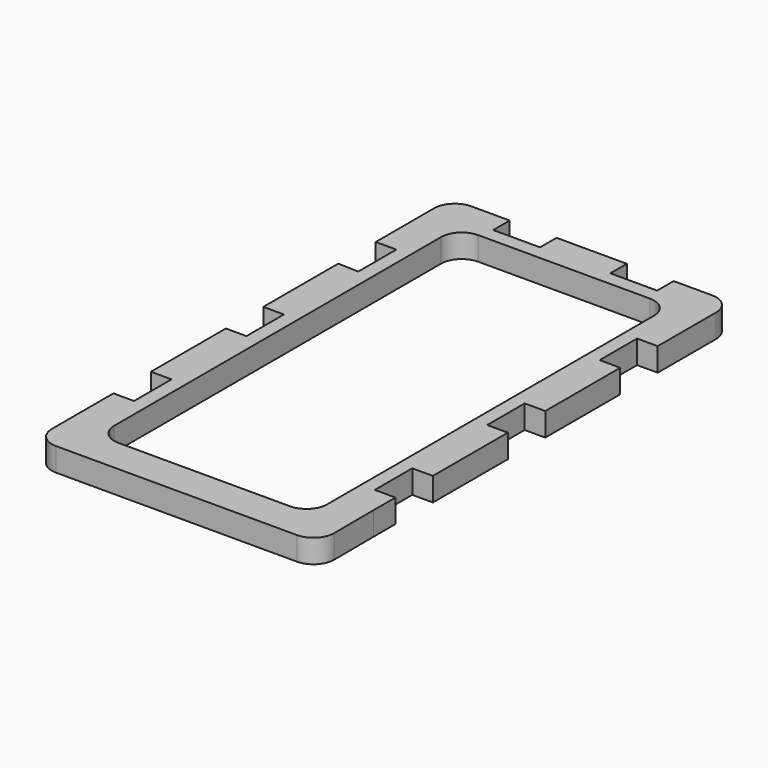
from build123d import *

# Parameters (mm, degrees)
F1_DEPTH = 6.35


with BuildPart() as f1:
    # F0 (on Top) → F1 (new body)
    with BuildSketch(Plane.XY):
        with BuildLine():
            Line((-22.225, 69.092832), (-32.639, 69.092832))
            ThreePointArc((-32.639, 69.092832), (-36.590313, 67.456144), (-38.227, 63.504832))
            Line((-38.227, 63.504832), (-38.227, 43.692832))
            Line((-38.227, 43.692832), (-32.639, 43.692832))
            Line((-32.639, 43.692832), (-32.639, 30.775996))
            Line((-32.639, 30.775996), (-38.227, 30.992832))
            Line((-38.227, 30.992832), (-38.227, 5.592832))
            Line((-38.227, 5.592832), (-32.639, 5.592832))
            Line((-32.639, 5.592832), (-32.639, -7.107168))
            Line((-32.639, -7.107168), (-38.227, -7.107168))
            Line((-38.227, -7.107168), (-38.227, -32.507168))
            Line((-38.227, -32.507168), (-32.639, -32.507168))
            Line((-32.639, -32.507168), (-32.639, -45.207168))
            Line((-32.639, -45.207168), (-38.227, -45.207168))
            Line((-38.227, -45.207168), (-38.227, -52.56587))
            Line((-38.227, -52.56587), (-38.227, -66.085968))
            ThreePointArc((-38.227, -66.085968), (-36.590313, -70.037281), (-32.639, -71.673968))
            Line((-32.639, -71.673968), (-22.225, -71.673968))
            Line((-22.225, -71.673968), (-9.525, -71.673968))
            Line((-9.525, -71.673968), (9.525, -71.673968))
            Line((9.525, -71.673968), (22.225, -71.673968))
            Line((22.225, -71.673968), (32.706467, -71.673968))
            ThreePointArc((32.706467, -71.673968), (36.667636, -70.0274), (38.294397, -66.058055))
            Line((38.294397, -66.058055), (38.227, -52.56587))
            Line((38.227, -52.56587), (38.227, -45.207168))
            Line((38.227, -45.207168), (32.639, -45.207168))
            Line((32.639, -45.207168), (32.639, -32.507168))
            Line((32.639, -32.507168), (38.227, -32.507168))
            Line((38.227, -32.507168), (38.227, -7.107168))
            Line((38.227, -7.107168), (32.639, -7.107168))
            Line((32.639, -7.107168), (32.639, 5.592832))
            Line((32.639, 5.592832), (38.227, 5.592832))
            Line((38.227, 5.592832), (38.227, 30.992832))
            Line((38.227, 30.992832), (32.639, 30.992832))
            Line((32.639, 30.992832), (32.639, 43.692832))
            Line((32.639, 43.692832), (38.227, 43.692832))
            Line((38.227, 43.692832), (38.227, 63.504832))
            ThreePointArc((38.227, 63.504832), (36.590313, 67.456144), (32.639, 69.092832))
            Line((32.639, 69.092832), (22.225, 69.092832))
            Line((22.225, 69.092832), (22.225, 63.504832))
            Line((22.225, 63.504832), (9.525, 63.504832))
            Line((9.525, 63.504832), (9.525, 69.092832))
            Line((9.525, 69.092832), (-9.525, 69.092832))
            Line((-9.525, 69.092832), (-9.525, 63.504832))
            Line((-9.525, 63.504832), (-22.225, 63.504832))
            Line((-22.225, 63.504832), (-22.225, 69.092832))
        make_face()
        with BuildLine():
            Line((-28.829, -56.687968), (-28.829, 54.106832))
            ThreePointArc((-28.829, 54.106832), (-27.192313, 58.058144), (-23.241, 59.694832))
            Line((-23.241, 59.694832), (23.308467, 59.694832))
            ThreePointArc((23.308467, 59.694832), (27.25978, 58.058144), (28.896467, 54.106832))
            Line((28.896467, 54.106832), (28.896467, -56.687968))
            ThreePointArc((28.896467, -56.687968), (27.25978, -60.639281), (23.308467, -62.275968))
            Line((23.308467, -62.275968), (-23.241, -62.275968))
            ThreePointArc((-23.241, -62.275968), (-27.192313, -60.639281), (-28.829, -56.687968))
        make_face(mode=Mode.SUBTRACT)
    extrude(amount=F1_DEPTH)


solid = f1.part
